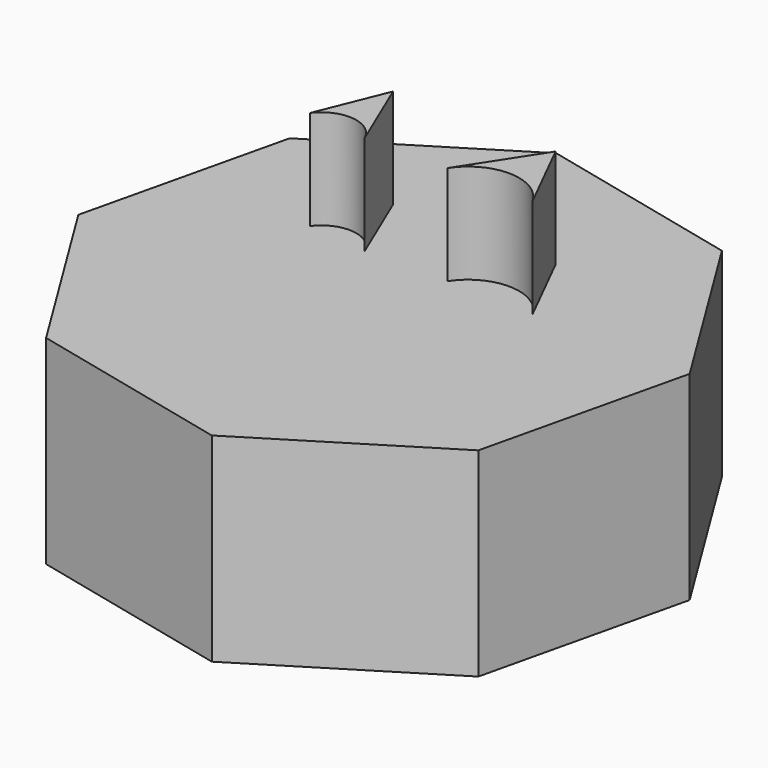
from build123d import *

# Parameters (mm, degrees)
F2_DEPTH = 38.1
F3_DEPTH = 25.4


with BuildPart() as f2:
    # F1 (on Top) → F2 (new body)
    with BuildSketch(Plane.XY):
        with BuildLine():
            Line((-18.765474, 27.354643), (-22.313174, 18.578751))
            ThreePointArc((-22.313174, 18.578751), (-18.215258, 20.327041), (-14.657608, 17.645145))
            Line((-14.657608, 17.645145), (-18.765474, 27.354643))
        make_face()
        with BuildLine():
            Line((1.96057, 27.354643), (-4.201226, 17.831868))
            ThreePointArc((-4.201226, 17.831868), (1.358869, 20.795927), (6.815321, 17.645145))
            Line((6.815321, 17.645145), (1.96057, 27.354643))
        make_face()
    extrude(amount=F2_DEPTH)


with BuildPart() as f3:
    # F0 (on Top) → F3 (new body)
    with BuildSketch(Plane.XY):
        Polygon((-1.753196, -22.816095), (20.985475, -8.739774), (27.110681, 17.292357), (13.034359, 40.031029), (-12.997772, 46.156235), (-35.736443, 32.079913), (-41.861649, 6.047782), (-27.785327, -16.690889), align=None)
        Polygon((-1.753196, -22.816095), (20.985475, -8.739774), (27.110681, 17.292357), (13.034359, 40.031029), (-12.997772, 46.156235), (-35.736443, 32.079913), (-41.861649, 6.047782), (-27.785327, -16.690889), align=None)
    extrude(amount=F3_DEPTH)


solid = Compound([f2.part, f3.part])
